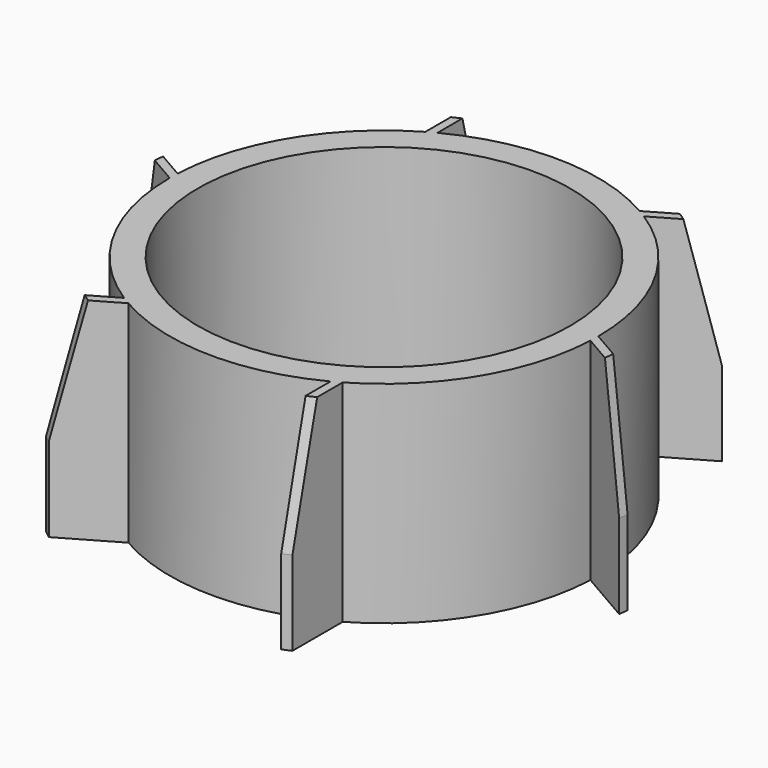
from build123d import *

# Parameters (mm, degrees)
F2_R     = 1.25
F3_DEPTH = 15
F5_DEPTH = 30.001


with BuildPart() as f1:
    # F0 (on Front) → F1 (revolve)
    with BuildSketch(Plane.XZ):
        Polygon((34.5, 30), (26.5, 30), (26.5, 0), (38.5, 0), (38.5, 12), align=None)
    revolve(axis=Axis((0, 0, 21.473579), (0, 0, 1)))

    # F2 (on face) → F3 (cut)
    with BuildSketch(Plane(origin=(0, 0, 0), x_dir=(1, 0, 0), z_dir=(0, 0, -1))):
        with Locations((-28, -6)):
            Circle(F2_R)
        with Locations((28, 6)):
            Circle(F2_R)
    extrude(amount=-F3_DEPTH, mode=Mode.SUBTRACT)

    # F4 (on face) → F5 (cut, through all)
    with BuildSketch(Plane(origin=(0, 0, 0), x_dir=(1, 0, 0), z_dir=(0, 0, -1))):
        with BuildLine():
            Line((-48.065083, -10.141205), (-30.5, 0))
            ThreePointArc((-30.5, 0), (-26.749196, 14.653687), (-16.419309, 25.703235))
            Line((-16.419309, 25.703235), (-33.739817, 35.703235))
            ThreePointArc((-33.739817, 35.703235), (-46.88751, 14.6512), (-48.065083, -10.141205))
        make_face()
        with BuildLine():
            Line((-30.469309, -1.367921), (-47.789817, -11.367921))
            ThreePointArc((-47.789817, -11.367921), (-36.132066, -33.280175), (-15.25, -46.696186))
            Line((-15.25, -46.696186), (-15.25, -26.413775))
            ThreePointArc((-15.25, -26.413775), (-26.065063, -15.838639), (-30.469309, -1.367921))
        make_face()
        with BuildLine():
            Line((-14.05, -27.071156), (-14.05, -47.071156))
            ThreePointArc((-14.05, -47.071156), (10.755444, -47.931375), (32.815083, -36.55498))
            Line((32.815083, -36.55498), (15.25, -26.413775))
            ThreePointArc((15.25, -26.413775), (0.684133, -30.492326), (-14.05, -27.071156))
        make_face()
        with BuildLine():
            Line((16.419309, -25.703235), (33.739817, -35.703235))
            ThreePointArc((33.739817, -35.703235), (46.88751, -14.6512), (48.065083, 10.141205))
            Line((48.065083, 10.141205), (30.5, 0))
            ThreePointArc((30.5, 0), (26.749196, -14.653687), (16.419309, -25.703235))
        make_face()
        with BuildLine():
            Line((30.469309, 1.367921), (47.789817, 11.367921))
            ThreePointArc((47.789817, 11.367921), (36.132066, 33.280175), (15.25, 46.696186))
            Line((15.25, 46.696186), (15.25, 26.413775))
            ThreePointArc((15.25, 26.413775), (26.065063, 15.838639), (30.469309, 1.367921))
        make_face()
        with BuildLine():
            Line((14.05, 27.071156), (14.05, 47.071156))
            ThreePointArc((14.05, 47.071156), (-10.755444, 47.931375), (-32.815083, 36.55498))
            Line((-32.815083, 36.55498), (-15.25, 26.413775))
            ThreePointArc((-15.25, 26.413775), (-0.684133, 30.492326), (14.05, 27.071156))
        make_face()
    extrude(amount=-F5_DEPTH, mode=Mode.SUBTRACT)


solid = f1.part
